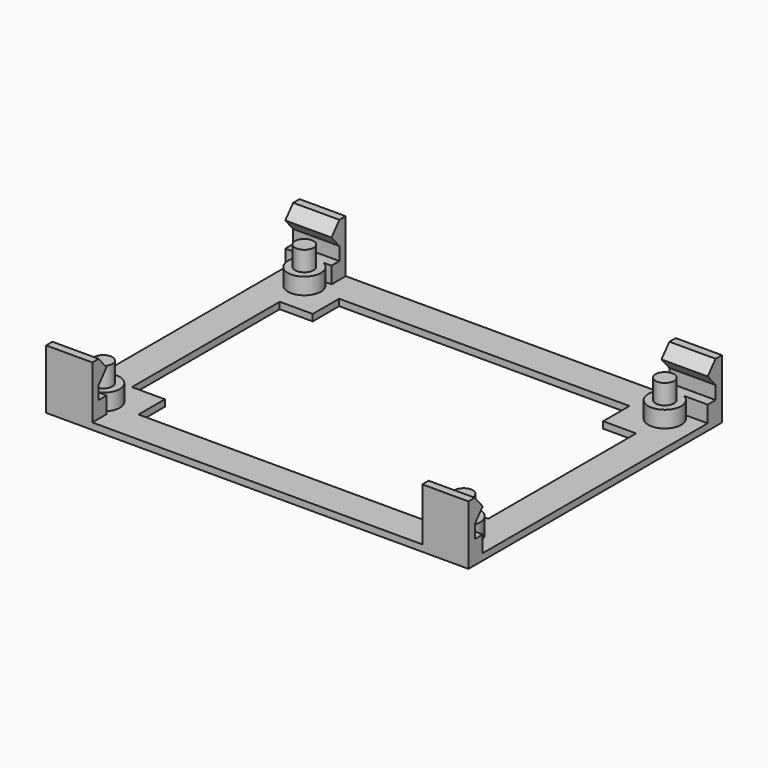
from build123d import *

# Parameters (mm, degrees)
SKETCH_W        = 64
SKETCH_H        = 48
PAD_DEPTH       = 1
POCKET_DEPTH    = 1.001
SKETCH002_R     = 2.5
PAD001_DEPTH    = 2.5
SKETCH003_R     = 1.4
PAD002_DEPTH    = 3
SKETCH004_W     = 7
SKETCH004_H     = 2.7
PAD003_DEPTH    = 8
POCKET001_DEPTH = 225.010317


with BuildPart() as part:
    # Sketch → Pad (new body)
    with BuildSketch(Plane.XY):
        Rectangle(SKETCH_W, SKETCH_H)
    extrude(amount=PAD_DEPTH)

    # Sketch001 → Pocket (cut, through all)
    with BuildSketch(Plane.XY.offset(1)):
        Polygon((-27, 14), (-27, -14), (-22, -14), (-22, -19), (22, -19), (22, -14), (27, -14), (27, 14), (22, 14), (22, 19), (-22, 19), (-22, 14), align=None)
    extrude(amount=-POCKET_DEPTH, mode=Mode.SUBTRACT)

    # Sketch002 → Pad001 (new body)
    with BuildSketch(Plane.XY.offset(1)):
        with Locations((-27.305, 19.05)):
            Circle(SKETCH002_R)
        with Locations((-27.305, -19.05)):
            Circle(SKETCH002_R)
        with Locations((27.305, 19.05)):
            Circle(SKETCH002_R)
        with Locations((27.305, -19.05)):
            Circle(SKETCH002_R)
    extrude(amount=PAD001_DEPTH)

    # Sketch003 → Pad002 (new body)
    with BuildSketch(Plane.XY.offset(3.5)):
        with Locations((27.305, 19.05)):
            Circle(SKETCH003_R)
        with Locations((-27.305, -19.05)):
            Circle(SKETCH003_R)
        with Locations((27.305, -19.05)):
            Circle(SKETCH003_R)
        with Locations((-27.305, 19.05)):
            Circle(SKETCH003_R)
    extrude(amount=PAD002_DEPTH)

    # Sketch004 → Pad003 (new body)
    with BuildSketch(Plane.XY.offset(1)):
        with Locations((-28.5, -22.65)):
            Rectangle(SKETCH004_W, SKETCH004_H)
        with Locations((28.5, -22.65)):
            Rectangle(SKETCH004_W, SKETCH004_H)
        with Locations((28.5, 22.65)):
            Rectangle(SKETCH004_W, SKETCH004_H)
        with Locations((-28.5, 22.65)):
            Rectangle(SKETCH004_W, SKETCH004_H)
    extrude(amount=PAD003_DEPTH)

    # Sketch005 → Pocket001 (cut, through all)
    with BuildSketch(Plane.YZ.offset(32)):
        Polygon((-22.8, 9), (-21.3, 7.25), (-22.8, 5.5), (-22.8, 3.5), (-21.3, 3.5), (-21.2, 10), (-22.8, 10), align=None)
    pocket001 = extrude(amount=-POCKET001_DEPTH, mode=Mode.SUBTRACT)

    # Mirrored: Pocket001 across Sketch005 V_Axis
    add(pocket001.mirror(Plane(origin=(32, 0, 0), x_dir=(1, 0, 0), z_dir=(0, 1, 0))), mode=Mode.SUBTRACT)


solid = part.part
